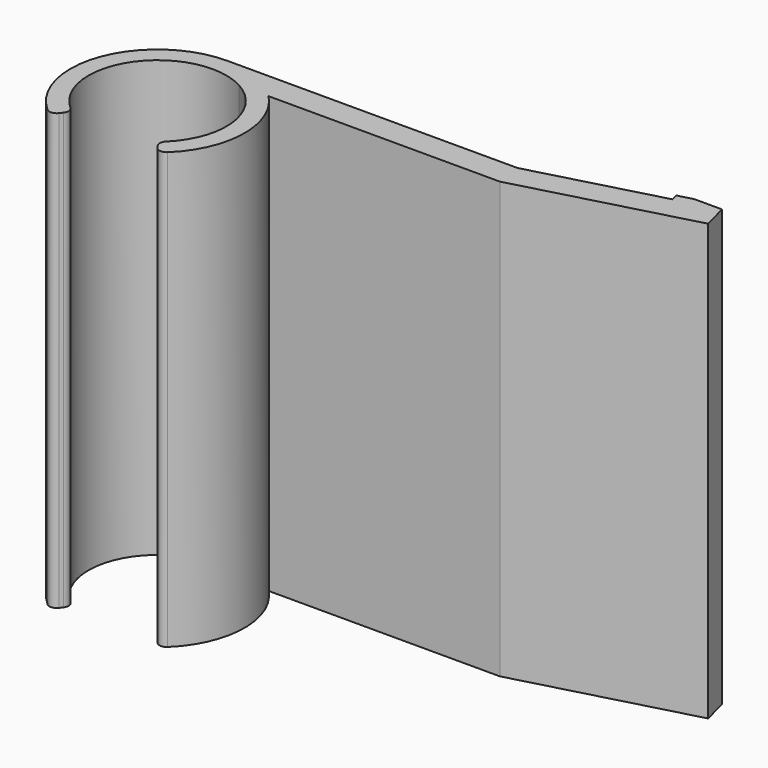
from build123d import *

# Parameters (mm, degrees)
F1_DEPTH = 30
F2_R     = 0.5


with BuildPart() as f1:
    # F0 (on Top) → F1 (new body)
    with BuildSketch(Plane.XY):
        with BuildLine():
            ThreePointArc((2.280342, 4.166838), (4.730821, 0.426415), (2.988694, -3.691911))
            Line((2.988694, -3.691911), (3.733759, -4.696706))
            ThreePointArc((3.733759, -4.696706), (5.987047, -0.394037), (4.317112, 4.166838))
            Line((4.317112, 4.166838), (2.280342, 4.166838))
        make_face()
        with BuildLine():
            ThreePointArc((-2.797626, -3.838722), (-4.011128, 2.544279), (2.280342, 4.166838))
            Line((2.280342, 4.166838), (4.317112, 4.166838))
            ThreePointArc((4.317112, 4.166838), (2.345098, 5.522727), (0, 6))
            ThreePointArc((0, 6), (-5.698633, 1.877652), (-3.566684, -4.824807))
            Line((-3.566684, -4.824807), (-2.797626, -3.838722))
        make_face()
        with BuildLine():
            ThreePointArc((0, 6), (2.345098, 5.522727), (4.317112, 4.166838))
            Line((4.317112, 4.166838), (20.24134, 4.166838))
            Line((20.24134, 4.166838), (32.065567, 7.33513))
            Line((32.065567, 7.33513), (31.59111, 9.105829))
            Line((31.59111, 9.105829), (28.787132, 8.354505))
            Line((28.787132, 8.354505), (20, 6))
            Line((20, 6), (0, 6))
        make_face()
        Polygon((28.658916, 8.833014), (28.787132, 8.354505), (31.59111, 9.105829), (29.677074, 9.105829), align=None)
    extrude(amount=F1_DEPTH)

    # F2
    f2_edges = [f1.edges().sort_by_distance(p)[0] for p in [
        (-3.566684, -4.824807, 15),
        (-2.797626, -3.838722, 15),
        (3.733759, -4.696706, 15),
        (2.988694, -3.691911, 15),
    ]]
    fillet(f2_edges, radius=F2_R)


solid = f1.part
